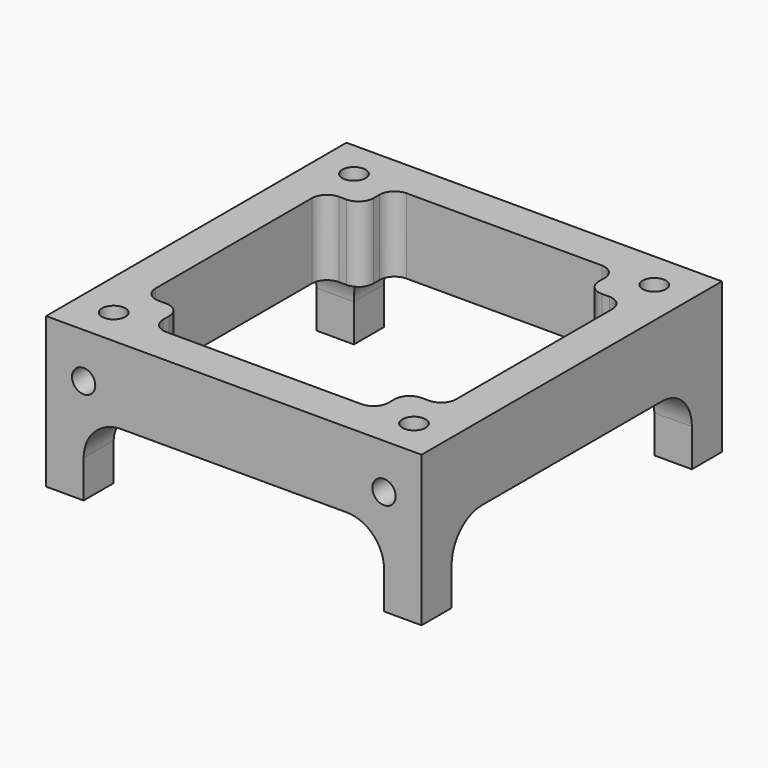
from build123d import *

# Parameters (mm, degrees)
SKETCH002_W     = 50
SKETCH002_H     = 50
PAD001_DEPTH    = 20
POCKET001_DEPTH = 20.001
POCKET002_DEPTH = 50.001
POCKET003_DEPTH = 50.001
SKETCH009_R     = 1.55
POCKET008_DEPTH = 5
SKETCH015_R     = 1.55
POCKET013_DEPTH = 3
SKETCH040_R     = 1.55
POCKET034_DEPTH = 3


with BuildPart() as part:
    # Sketch002 → Pad001 (new body)
    with BuildSketch(Plane.XY):
        Rectangle(SKETCH002_W, SKETCH002_H)
    extrude(amount=PAD001_DEPTH)

    # Sketch003 (on Face6 of Pad001) → Pocket001 (cut, through all)
    with BuildSketch(Plane.XY.offset(20)):
        with BuildLine():
            Line((-18, 15), (-17, 15))
            ThreePointArc((-17, 15), (-15.585786, 15.585786), (-15, 17))
            Line((-15, 17), (-15, 18))
            ThreePointArc((-13, 20), (-14.414214, 19.414214), (-15, 18))
            Line((-13, 20), (13, 20))
            ThreePointArc((15, 18), (14.414214, 19.414214), (13, 20))
            Line((15, 18), (15, 17))
            ThreePointArc((15, 17), (15.585786, 15.585786), (17, 15))
            Line((17, 15), (18, 15))
            ThreePointArc((20, 13), (19.414214, 14.414214), (18, 15))
            Line((20, 13), (20, -13))
            ThreePointArc((18, -15), (19.414214, -14.414214), (20, -13))
            Line((18, -15), (17, -15))
            ThreePointArc((17, -15), (15.585786, -15.585786), (15, -17))
            Line((15, -17), (15, -18))
            ThreePointArc((13, -20), (14.414214, -19.414214), (15, -18))
            Line((13, -20), (-13, -20))
            ThreePointArc((-15, -18), (-14.414214, -19.414214), (-13, -20))
            Line((-15, -18), (-15, -17))
            ThreePointArc((-15, -17), (-15.585786, -15.585786), (-17, -15))
            Line((-17, -15), (-18, -15))
            ThreePointArc((-20, -13), (-19.414214, -14.414214), (-18, -15))
            Line((-20, -13), (-20, 13))
            ThreePointArc((-18, 15), (-19.414214, 14.414214), (-20, 13))
        make_face()
    extrude(amount=-POCKET001_DEPTH, mode=Mode.SUBTRACT)

    # Sketch004 (on Face3 of Pocket001) → Pocket002 (cut, through all)
    with BuildSketch(Plane.YZ.offset(25)):
        with BuildLine():
            Line((-15, 10), (15, 10))
            ThreePointArc((20, 5), (18.535534, 8.535534), (15, 10))
            Line((20, 5), (20, 0))
            Line((20, 0), (-20, 0))
            Line((-20, 0), (-20, 5))
            ThreePointArc((-15, 10), (-18.535534, 8.535534), (-20, 5))
        make_face()
    extrude(amount=-POCKET002_DEPTH, mode=Mode.SUBTRACT)

    # Sketch005 (on Face6 of Pocket001) → Pocket003 (cut, through all)
    with BuildSketch(Plane.XZ.offset(25)):
        with BuildLine():
            Line((-15, 10), (15, 10))
            ThreePointArc((20, 5), (18.535534, 8.535534), (15, 10))
            Line((20, 5), (20, 0))
            Line((20, 0), (-20, 0))
            Line((-20, 0), (-20, 5))
            ThreePointArc((-15, 10), (-18.535534, 8.535534), (-20, 5))
        make_face()
    extrude(amount=-POCKET003_DEPTH, mode=Mode.SUBTRACT)

    # Sketch009 → Pocket008 (cut)
    with BuildSketch(Plane.XY.offset(20)):
        with Locations((-20, 20)):
            Circle(SKETCH009_R)
        with Locations((20, 20)):
            Circle(SKETCH009_R)
        with Locations((20, -20)):
            Circle(SKETCH009_R)
        with Locations((-20, -20)):
            Circle(SKETCH009_R)
    extrude(amount=-POCKET008_DEPTH, mode=Mode.SUBTRACT)

    # Sketch015 (on Face27 of Pocket008) → Pocket013 (cut)
    with BuildSketch(Plane.XZ.offset(25)):
        with Locations((-20, 14)):
            Circle(SKETCH015_R)
        with Locations((20, 14)):
            Circle(SKETCH015_R)
    extrude(amount=-POCKET013_DEPTH, mode=Mode.SUBTRACT)

    # Sketch040 (on Face11 of Pocket013) → Pocket034 (cut)
    with BuildSketch(Plane(origin=(-25, 0, 0), x_dir=(0, -1, 0), z_dir=(-1, 0, 0))):
        with Locations((-20, 14)):
            Circle(SKETCH040_R)
        with Locations((20, 14)):
            Circle(SKETCH040_R)
    extrude(amount=-POCKET034_DEPTH, mode=Mode.SUBTRACT)


with BuildPart() as part_1:
    # Body002 placement: moved
    add(part.part.moved(Location((25, 25, 0))))


solid = part_1.part
